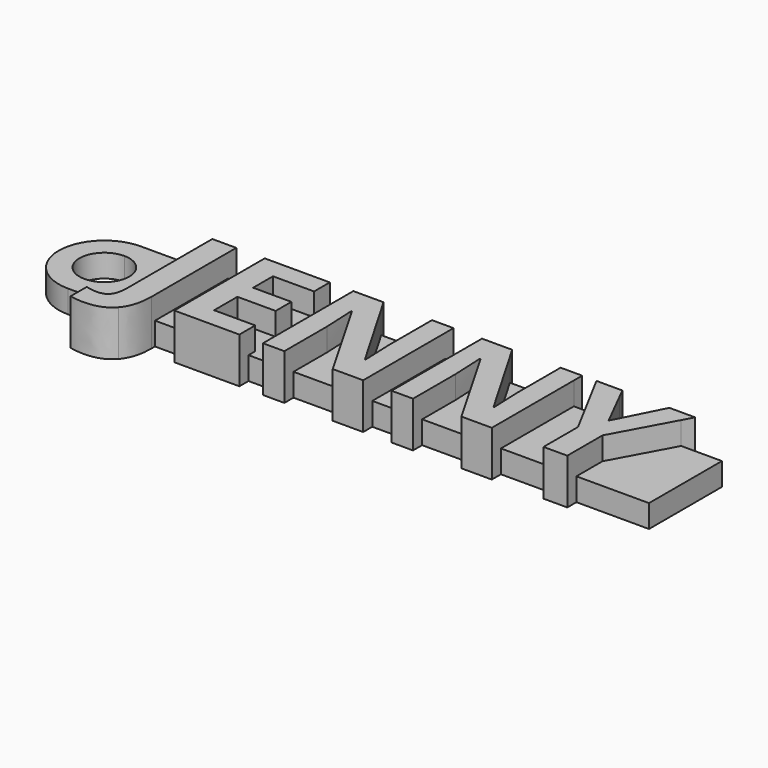
from build123d import *

# Parameters (mm, degrees)
F0_W     = 2.1028645833
F0_H     = 8
F0_H_2   = 0.9153645833
F1_DEPTH = 4
F0_W_2   = 5.7096354167
F0_H_3   = 1
F0_W_3   = 1.8793402778
F0_W_4   = 1.8923611111
F0_W_5   = 2.0876736111
F0_W_6   = 2.4956597222
F2_DEPTH = 2


with BuildPart() as f1:
    # F0 (on Top) → F1 (new body)
    with BuildSketch(Plane.XY):
        with Locations((-3.3594036534, 1.4062102847)):
            Rectangle(F0_W, F0_H)
        with Locations((-3.3594036534, 5.8638925763)):
            Rectangle(F0_W, F0_H_2)
        with BuildLine():
            Line((-2.3079713617, -2.5937897153), (-4.4108359451, -2.5937897153))
            Line((-4.4108359451, -2.5937897153), (-4.4108359451, -2.9687897153))
            add(Edge.make_bspline(
                [(-4.7092300423, -4.3153608959), (-4.4108359451, -3.8845883264), (-4.4108359451, -2.9687897153)],
                knots=[0, 0, 0, 1, 1, 1], degree=2))
            add(Edge.make_bspline(
                [(-5.6998984451, -4.7461334653), (-5.0076241395, -4.7461334653), (-4.7092300423, -4.3153608959)],
                knots=[0, 0, 0, 1, 1, 1], degree=2))
            add(Edge.make_bspline(
                [(-6.6894817784, -4.6115848542), (-6.1469470562, -4.7461334653), (-5.6998984451, -4.7461334653)],
                knots=[0, 0, 0, 1, 1, 1], degree=2))
            Line((-6.6894817784, -4.6115848542), (-6.6894817784, -6.3607167987))
            add(Edge.make_bspline(
                [(-5.448162334, -6.510456382), (-6.1599678895, -6.510456382), (-6.6894817784, -6.3607167987)],
                knots=[0, 0, 0, 1, 1, 1], degree=2))
            add(Edge.make_bspline(
                [(-3.1011571256, -5.6011681875), (-3.8943428895, -6.510456382), (-5.448162334, -6.510456382)],
                knots=[0, 0, 0, 1, 1, 1], degree=2))
            add(Edge.make_bspline(
                [(-2.3079713617, -2.955768882), (-2.3079713617, -4.6918799931), (-3.1011571256, -5.6011681875)],
                knots=[0, 0, 0, 1, 1, 1], degree=2))
            Line((-2.3079713617, -2.955768882), (-2.3079713617, -2.5937897153))
        make_face()
    extrude(amount=F1_DEPTH)



with BuildPart() as f1b:
    # F0 (on Top) → F1, piece 2 (new body)
    with BuildSketch(Plane.XY):
        with Locations((3.0425060688, -3.0937897153)):
            Rectangle(F0_W_2, F0_H_3)
        Polygon((5.8973237772, 5.4062102847), (0.1876883605, 5.4062102847), (0.1876883605, -2.5937897153), (5.8973237772, -2.5937897153), (5.8973237772, -1.8576786042), (2.2905529438, -1.8576786042), (2.2905529438, 0.6987450069), (5.6477578049, 0.6987450069), (5.6477578049, 2.4218352847), (2.2905529438, 2.4218352847), (2.2905529438, 4.5984845902), (5.8973237772, 4.5984845902), align=None)
        with Locations((3.0425060688, 5.8638925763)):
            Rectangle(F0_W_2, F0_H_2)
    extrude(amount=F1_DEPTH)


with BuildPart() as f1c:
    # F0 (on Top) → F1, piece 3 (new body)
    with BuildSketch(Plane.XY):
        Polygon((7.9654661383, 6.321574868), (7.9654661383, 5.4062102847), (11.1480840234, 5.4062102847), (10.6173758605, 6.321574868), align=None)
        with BuildLine():
            Line((11.1480840234, 5.4062102847), (7.9654661383, 5.4062102847))
            Line((7.9654661383, 5.4062102847), (7.9654661383, -2.5937897153))
            Line((7.9654661383, -2.5937897153), (9.844806416, -2.5937897153))
            Line((9.844806416, -2.5937897153), (9.844806416, 1.0720088958))
            add(Edge.make_bspline(
                [(9.7145980827, 3.9062102847), (9.844806416, 1.9205332013), (9.844806416, 1.0720088958)],
                knots=[0, 0, 0, 1, 1, 1], degree=2))
            Line((9.7145980827, 3.9062102847), (9.7753619716, 3.9062102847))
            Line((9.7753619716, 3.9062102847), (13.5143666012, -2.5937897153))
            Line((13.5143666012, -2.5937897153), (16.7610390549, -2.5937897153))
            Line((16.7610390549, -2.5937897153), (16.7610390549, 5.4062102847))
            Line((16.7610390549, 5.4062102847), (14.8686779438, 5.4062102847))
            Line((14.8686779438, 5.4062102847), (14.8686779438, 1.6275644513))
            add(Edge.make_bspline(
                [(14.9706744716, -1.1046404098), (14.8686779438, 0.8289533402), (14.8686779438, 1.6275644513)],
                knots=[0, 0, 0, 1, 1, 1], degree=2))
            Line((14.9706744716, -1.1046404098), (14.922931416, -1.1046404098))
            Line((14.922931416, -1.1046404098), (11.1480840234, 5.4062102847))
        make_face()
        with Locations((8.9051362772, -3.0937897153)):
            Rectangle(F0_W_3, F0_H_3)
        Polygon((16.7610390549, -2.5937897153), (13.5143666012, -2.5937897153), (14.0895980827, -3.5937897153), (16.7610390549, -3.5937897153), align=None)
        with Locations((15.8148584994, 5.8638925763)):
            Rectangle(F0_W_4, F0_H_2)
    extrude(amount=F1_DEPTH)


with BuildPart() as f1d:
    # F0 (on Top) → F1, piece 4 (new body)
    with BuildSketch(Plane.XY):
        Polygon((19.2566987772, 6.321574868), (19.2566987772, 5.4062102847), (22.4393166622, 5.4062102847), (21.9086084994, 6.321574868), align=None)
        with BuildLine():
            Line((22.4393166622, 5.4062102847), (19.2566987772, 5.4062102847))
            Line((19.2566987772, 5.4062102847), (19.2566987772, -2.5937897153))
            Line((19.2566987772, -2.5937897153), (21.1360390549, -2.5937897153))
            Line((21.1360390549, -2.5937897153), (21.1360390549, 1.0720088958))
            add(Edge.make_bspline(
                [(21.0058307216, 3.9062102847), (21.1360390549, 1.9205332013), (21.1360390549, 1.0720088958)],
                knots=[0, 0, 0, 1, 1, 1], degree=2))
            Line((21.0058307216, 3.9062102847), (21.0665946105, 3.9062102847))
            Line((21.0665946105, 3.9062102847), (24.8055992401, -2.5937897153))
            Line((24.8055992401, -2.5937897153), (28.0522716938, -2.5937897153))
            Line((28.0522716938, -2.5937897153), (28.0522716938, 5.4062102847))
            Line((28.0522716938, 5.4062102847), (26.1599105827, 5.4062102847))
            Line((26.1599105827, 5.4062102847), (26.1599105827, 1.6275644513))
            add(Edge.make_bspline(
                [(26.2619071105, -1.1046404098), (26.1599105827, 0.8289533402), (26.1599105827, 1.6275644513)],
                knots=[0, 0, 0, 1, 1, 1], degree=2))
            Line((26.2619071105, -1.1046404098), (26.2141640549, -1.1046404098))
            Line((26.2141640549, -1.1046404098), (22.4393166622, 5.4062102847))
        make_face()
        with Locations((27.1060911383, 5.8638925763)):
            Rectangle(F0_W_4, F0_H_2)
        Polygon((28.0522716938, -2.5937897153), (24.8055992401, -2.5937897153), (25.3808307216, -3.5937897153), (28.0522716938, -3.5937897153), align=None)
        with Locations((20.196368916, -3.0937897153)):
            Rectangle(F0_W_3, F0_H_3)
    extrude(amount=F1_DEPTH)


with BuildPart() as f1e:
    # F0 (on Top) → F1, piece 5 (new body)
    with BuildSketch(Plane.XY):
        with Locations((33.633868916, -3.0937897153)):
            Rectangle(F0_W_5, F0_H_3)
        Polygon((32.0395928218, 5.4062102847), (29.7918424154, 5.4062102847), (32.5900321105, 0.1974429236), (32.5900321105, -2.5937897153), (34.6777057216, -2.5937897153), (34.6777057216, 0.2647172291), (37.470433587, 5.4062102847), (35.2382460204, 5.4062102847), (33.633868916, 2.239543618), align=None)
        Polygon((29.3001015549, 6.321574868), (29.7918424154, 5.4062102847), (32.0395928218, 5.4062102847), (31.5787473883, 6.321574868), align=None)
        Polygon((35.7020112772, 6.321574868), (35.2382460204, 5.4062102847), (37.470433587, 5.4062102847), (37.9676362772, 6.321574868), align=None)
    extrude(amount=F1_DEPTH)


with BuildPart() as f1_1:
    add(f1.part)

    add(f1b.part)  # F2 merges F1b

    add(f1c.part)  # F2 merges F1c

    add(f1d.part)  # F2 merges F1d

    add(f1e.part)  # F2 merges F1e
    # F0 (on Top) → F2 (join)
    with BuildSketch(Plane.XY):
        with BuildLine():
            Line((-4.4108359451, 5.4062102847), (-9.9518112838, 5.4062102847))
            Line((-9.9518112838, 5.4062102847), (-9.9518112838, 3.5921949646))
            ThreePointArc((-9.9518112838, 3.5921949646), (-8.4060866931, 2.9519348754), (-7.7658266039, 1.4062102847))
            ThreePointArc((-7.7658266039, 1.4062102847), (-8.4060866931, -0.1395143061), (-9.9518112838, -0.7797743953))
            Line((-9.9518112838, -0.7797743953), (-9.9518112838, -2.5937897153))
            Line((-9.9518112838, -2.5937897153), (-4.4108359451, -2.5937897153))
            Line((-4.4108359451, -2.5937897153), (-4.4108359451, 5.4062102847))
        make_face()
        with BuildLine():
            Line((-9.9518112838, 3.5921949646), (-9.9518112838, 5.4062102847))
            ThreePointArc((-9.9518112838, 5.4062102847), (-13.9518112838, 1.4062102847), (-9.9518112838, -2.5937897153))
            Line((-9.9518112838, -2.5937897153), (-9.9518112838, -0.7797743953))
            ThreePointArc((-9.9518112838, -0.7797743953), (-12.1377959638, 1.4062102847), (-9.9518112838, 3.5921949646))
        make_face()
        with Locations((-3.3594036534, 5.8638925763)):
            Rectangle(F0_W, F0_H_2)
        with Locations((-3.3594036534, 1.4062102847)):
            Rectangle(F0_W, F0_H)
        with Locations((-1.0601415006, 1.4062102847)):
            Rectangle(F0_W_6, F0_H)
        with BuildLine():
            Line((-2.3079713617, -2.5937897153), (-4.4108359451, -2.5937897153))
            Line((-4.4108359451, -2.5937897153), (-4.4108359451, -2.9687897153))
            add(Edge.make_bspline(
                [(-4.7092300423, -4.3153608959), (-4.4108359451, -3.8845883264), (-4.4108359451, -2.9687897153)],
                knots=[0, 0, 0, 1, 1, 1], degree=2))
            add(Edge.make_bspline(
                [(-5.6998984451, -4.7461334653), (-5.0076241395, -4.7461334653), (-4.7092300423, -4.3153608959)],
                knots=[0, 0, 0, 1, 1, 1], degree=2))
            add(Edge.make_bspline(
                [(-6.6894817784, -4.6115848542), (-6.1469470562, -4.7461334653), (-5.6998984451, -4.7461334653)],
                knots=[0, 0, 0, 1, 1, 1], degree=2))
            Line((-6.6894817784, -4.6115848542), (-6.6894817784, -6.3607167987))
            add(Edge.make_bspline(
                [(-5.448162334, -6.510456382), (-6.1599678895, -6.510456382), (-6.6894817784, -6.3607167987)],
                knots=[0, 0, 0, 1, 1, 1], degree=2))
            add(Edge.make_bspline(
                [(-3.1011571256, -5.6011681875), (-3.8943428895, -6.510456382), (-5.448162334, -6.510456382)],
                knots=[0, 0, 0, 1, 1, 1], degree=2))
            add(Edge.make_bspline(
                [(-2.3079713617, -2.955768882), (-2.3079713617, -4.6918799931), (-3.1011571256, -5.6011681875)],
                knots=[0, 0, 0, 1, 1, 1], degree=2))
            Line((-2.3079713617, -2.955768882), (-2.3079713617, -2.5937897153))
        make_face()
        with Locations((3.0425060688, 5.8638925763)):
            Rectangle(F0_W_2, F0_H_2)
        Polygon((5.8973237772, 5.4062102847), (0.1876883605, 5.4062102847), (0.1876883605, -2.5937897153), (5.8973237772, -2.5937897153), (5.8973237772, -1.8576786042), (2.2905529438, -1.8576786042), (2.2905529438, 0.6987450069), (5.6477578049, 0.6987450069), (5.6477578049, 2.4218352847), (2.2905529438, 2.4218352847), (2.2905529438, 4.5984845902), (5.8973237772, 4.5984845902), align=None)
        Polygon((7.9654661383, 5.4062102847), (5.8973237772, 5.4062102847), (5.8973237772, 4.5984845902), (2.2905529438, 4.5984845902), (2.2905529438, 2.4218352847), (5.6477578049, 2.4218352847), (5.6477578049, 0.6987450069), (2.2905529438, 0.6987450069), (2.2905529438, -1.8576786042), (5.8973237772, -1.8576786042), (5.8973237772, -2.5937897153), (7.9654661383, -2.5937897153), align=None)
        with Locations((3.0425060688, -3.0937897153)):
            Rectangle(F0_W_2, F0_H_3)
        Polygon((7.9654661383, 6.321574868), (7.9654661383, 5.4062102847), (11.1480840234, 5.4062102847), (10.6173758605, 6.321574868), align=None)
        with BuildLine():
            Line((11.1480840234, 5.4062102847), (7.9654661383, 5.4062102847))
            Line((7.9654661383, 5.4062102847), (7.9654661383, -2.5937897153))
            Line((7.9654661383, -2.5937897153), (9.844806416, -2.5937897153))
            Line((9.844806416, -2.5937897153), (9.844806416, 1.0720088958))
            add(Edge.make_bspline(
                [(9.7145980827, 3.9062102847), (9.844806416, 1.9205332013), (9.844806416, 1.0720088958)],
                knots=[0, 0, 0, 1, 1, 1], degree=2))
            Line((9.7145980827, 3.9062102847), (9.7753619716, 3.9062102847))
            Line((9.7753619716, 3.9062102847), (13.5143666012, -2.5937897153))
            Line((13.5143666012, -2.5937897153), (16.7610390549, -2.5937897153))
            Line((16.7610390549, -2.5937897153), (16.7610390549, 5.4062102847))
            Line((16.7610390549, 5.4062102847), (14.8686779438, 5.4062102847))
            Line((14.8686779438, 5.4062102847), (14.8686779438, 1.6275644513))
            add(Edge.make_bspline(
                [(14.9706744716, -1.1046404098), (14.8686779438, 0.8289533402), (14.8686779438, 1.6275644513)],
                knots=[0, 0, 0, 1, 1, 1], degree=2))
            Line((14.9706744716, -1.1046404098), (14.922931416, -1.1046404098))
            Line((14.922931416, -1.1046404098), (11.1480840234, 5.4062102847))
        make_face()
        with BuildLine():
            Line((14.8686779438, 5.4062102847), (11.1480840234, 5.4062102847))
            Line((11.1480840234, 5.4062102847), (14.922931416, -1.1046404098))
            Line((14.922931416, -1.1046404098), (14.9706744716, -1.1046404098))
            add(Edge.make_bspline(
                [(14.9706744716, -1.1046404098), (14.8686779438, 0.8289533402), (14.8686779438, 1.6275644513)],
                knots=[0, 0, 0, 1, 1, 1], degree=2))
            Line((14.8686779438, 1.6275644513), (14.8686779438, 5.4062102847))
        make_face()
        with Locations((8.9051362772, -3.0937897153)):
            Rectangle(F0_W_3, F0_H_3)
        with Locations((15.8148584994, 5.8638925763)):
            Rectangle(F0_W_4, F0_H_2)
        with BuildLine():
            Line((9.844806416, 1.0720088958), (9.844806416, -2.5937897153))
            Line((9.844806416, -2.5937897153), (13.5143666012, -2.5937897153))
            Line((13.5143666012, -2.5937897153), (9.7753619716, 3.9062102847))
            Line((9.7753619716, 3.9062102847), (9.7145980827, 3.9062102847))
            add(Edge.make_bspline(
                [(9.7145980827, 3.9062102847), (9.844806416, 1.9205332013), (9.844806416, 1.0720088958)],
                knots=[0, 0, 0, 1, 1, 1], degree=2))
        make_face()
        with Locations((18.008868916, 1.4062102847)):
            Rectangle(F0_W_6, F0_H)
        Polygon((16.7610390549, -2.5937897153), (13.5143666012, -2.5937897153), (14.0895980827, -3.5937897153), (16.7610390549, -3.5937897153), align=None)
        Polygon((19.2566987772, 6.321574868), (19.2566987772, 5.4062102847), (22.4393166622, 5.4062102847), (21.9086084994, 6.321574868), align=None)
        with BuildLine():
            Line((22.4393166622, 5.4062102847), (19.2566987772, 5.4062102847))
            Line((19.2566987772, 5.4062102847), (19.2566987772, -2.5937897153))
            Line((19.2566987772, -2.5937897153), (21.1360390549, -2.5937897153))
            Line((21.1360390549, -2.5937897153), (21.1360390549, 1.0720088958))
            add(Edge.make_bspline(
                [(21.0058307216, 3.9062102847), (21.1360390549, 1.9205332013), (21.1360390549, 1.0720088958)],
                knots=[0, 0, 0, 1, 1, 1], degree=2))
            Line((21.0058307216, 3.9062102847), (21.0665946105, 3.9062102847))
            Line((21.0665946105, 3.9062102847), (24.8055992401, -2.5937897153))
            Line((24.8055992401, -2.5937897153), (28.0522716938, -2.5937897153))
            Line((28.0522716938, -2.5937897153), (28.0522716938, 5.4062102847))
            Line((28.0522716938, 5.4062102847), (26.1599105827, 5.4062102847))
            Line((26.1599105827, 5.4062102847), (26.1599105827, 1.6275644513))
            add(Edge.make_bspline(
                [(26.2619071105, -1.1046404098), (26.1599105827, 0.8289533402), (26.1599105827, 1.6275644513)],
                knots=[0, 0, 0, 1, 1, 1], degree=2))
            Line((26.2619071105, -1.1046404098), (26.2141640549, -1.1046404098))
            Line((26.2141640549, -1.1046404098), (22.4393166622, 5.4062102847))
        make_face()
        with BuildLine():
            Line((26.1599105827, 5.4062102847), (22.4393166622, 5.4062102847))
            Line((22.4393166622, 5.4062102847), (26.2141640549, -1.1046404098))
            Line((26.2141640549, -1.1046404098), (26.2619071105, -1.1046404098))
            add(Edge.make_bspline(
                [(26.2619071105, -1.1046404098), (26.1599105827, 0.8289533402), (26.1599105827, 1.6275644513)],
                knots=[0, 0, 0, 1, 1, 1], degree=2))
            Line((26.1599105827, 1.6275644513), (26.1599105827, 5.4062102847))
        make_face()
        with Locations((20.196368916, -3.0937897153)):
            Rectangle(F0_W_3, F0_H_3)
        with Locations((27.1060911383, 5.8638925763)):
            Rectangle(F0_W_4, F0_H_2)
        with BuildLine():
            Line((21.1360390549, 1.0720088958), (21.1360390549, -2.5937897153))
            Line((21.1360390549, -2.5937897153), (24.8055992401, -2.5937897153))
            Line((24.8055992401, -2.5937897153), (21.0665946105, 3.9062102847))
            Line((21.0665946105, 3.9062102847), (21.0058307216, 3.9062102847))
            add(Edge.make_bspline(
                [(21.0058307216, 3.9062102847), (21.1360390549, 1.9205332013), (21.1360390549, 1.0720088958)],
                knots=[0, 0, 0, 1, 1, 1], degree=2))
        make_face()
        Polygon((29.7918424154, 5.4062102847), (28.0522716938, 5.4062102847), (28.0522716938, -2.5937897153), (32.5900321105, -2.5937897153), (32.5900321105, 0.1974429236), align=None)
        Polygon((28.0522716938, -2.5937897153), (24.8055992401, -2.5937897153), (25.3808307216, -3.5937897153), (28.0522716938, -3.5937897153), align=None)
        Polygon((29.3001015549, 6.321574868), (29.7918424154, 5.4062102847), (32.0395928218, 5.4062102847), (31.5787473883, 6.321574868), align=None)
        Polygon((32.0395928218, 5.4062102847), (29.7918424154, 5.4062102847), (32.5900321105, 0.1974429236), (32.5900321105, -2.5937897153), (34.6777057216, -2.5937897153), (34.6777057216, 0.2647172291), (37.470433587, 5.4062102847), (35.2382460204, 5.4062102847), (33.633868916, 2.239543618), align=None)
        Polygon((35.2382460204, 5.4062102847), (32.0395928218, 5.4062102847), (33.633868916, 2.239543618), align=None)
        with Locations((33.633868916, -3.0937897153)):
            Rectangle(F0_W_5, F0_H_3)
        Polygon((35.7020112772, 6.321574868), (35.2382460204, 5.4062102847), (37.470433587, 5.4062102847), (37.9676362772, 6.321574868), align=None)
        Polygon((34.6777057216, 0.2647172291), (34.6777057216, -2.5937897153), (41.0481887162, -2.5937897153), (41.0481887162, 5.4062102847), (37.470433587, 5.4062102847), align=None)
    extrude(amount=F2_DEPTH)


solid = f1_1.part
